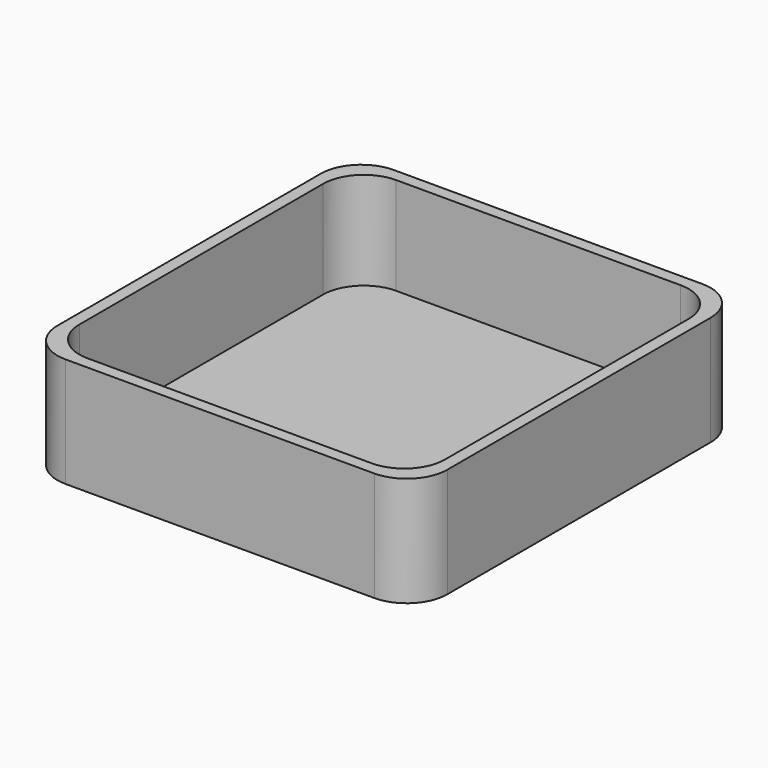
from build123d import *

# Parameters (mm, degrees)
F0_W     = 48
F0_H     = 50.5
F1_DEPTH = 13.5
F2_W     = 45
F2_H     = 47.5
F3_DEPTH = 12
F4_R     = 5


with BuildPart() as f1:
    # F0 (on Top) → F1 (new body)
    with BuildSketch(Plane.XY):
        Rectangle(F0_W, F0_H)
    extrude(amount=F1_DEPTH)

    # F2 (on face) → F3 (cut)
    with BuildSketch(Plane.XY.offset(13.5)):
        Rectangle(F2_W, F2_H)
    extrude(amount=-F3_DEPTH, mode=Mode.SUBTRACT)

    # F4
    f4_edges = [f1.edges().sort_by_distance(p)[0] for p in [
        (22.5, 23.75, 7.5),
        (-22.5, 23.75, 7.5),
        (22.5, -23.75, 7.5),
        (-22.5, -23.75, 7.5),
        (-24, -25.25, 6.75),
        (24, -25.25, 6.75),
        (-24, 25.25, 6.75),
        (24, 25.25, 6.75),
    ]]
    fillet(f4_edges, radius=F4_R)


solid = f1.part
